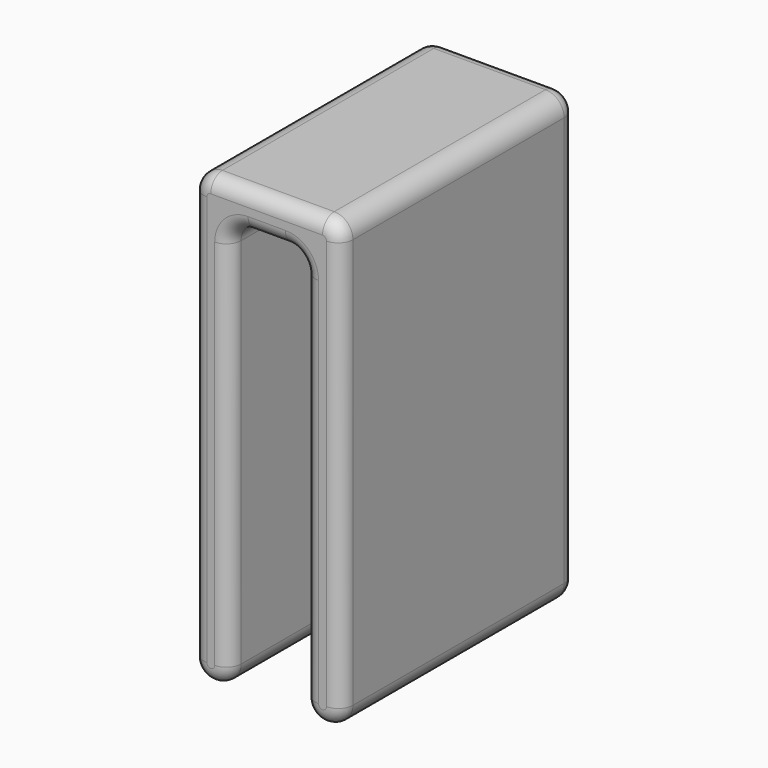
from build123d import *

# Parameters (mm, degrees)
F1_DEPTH = 50
F2_R     = 5


with BuildPart() as f1:
    # F0 (on Front) → F1 (new body, symmetric)
    with BuildSketch(Plane.XZ):
        with BuildLine():
            Line((19.05, 76.2), (-19.05, 76.2))
            ThreePointArc((-19.05, 76.2), (-23.5401280605, 74.3401280605), (-25.4, 69.85))
            Line((-25.4, 69.85), (-25.4, -69.85))
            ThreePointArc((-25.4, -69.85), (-23.5401280605, -74.3401280605), (-19.05, -76.2))
            ThreePointArc((-19.05, -76.2), (-14.5598719395, -74.3401280605), (-12.7, -69.85))
            Line((-12.7, -69.85), (-12.7, -63.5))
            Line((-12.7, -63.5), (-12.7, 57.15))
            ThreePointArc((-12.7, 57.15), (-10.8401280605, 61.6401280605), (-6.35, 63.5))
            Line((-6.35, 63.5), (6.35, 63.5))
            ThreePointArc((6.35, 63.5), (10.8401280605, 61.6401280605), (12.7, 57.15))
            Line((12.7, 57.15), (12.7, -63.5))
            Line((12.7, -63.5), (12.7, -69.85))
            ThreePointArc((12.7, -69.85), (14.5598719395, -74.3401280605), (19.05, -76.2))
            ThreePointArc((19.05, -76.2), (23.5401280605, -74.3401280605), (25.4, -69.85))
            Line((25.4, -69.85), (25.4, 69.85))
            ThreePointArc((25.4, 69.85), (23.5401280605, 74.3401280605), (19.05, 76.2))
        make_face()
    extrude(amount=F1_DEPTH, both=True)

    # F2
    f2_edges = [f1.edges().sort_by_distance(p)[0] for p in [
        (19.05, 50, -76.2),
        (25.4, 50, 0),
        (23.540128, 50, 74.340128),
        (0, 50, 76.2),
        (-23.540128, 50, 74.340128),
        (-25.4, 50, 0),
        (-19.05, 50, -76.2),
        (-12.7, 50, -6.35),
        (-10.840128, 50, 61.640128),
        (0, 50, 63.5),
        (10.840128, 50, 61.640128),
        (12.7, 50, -6.35),
        (19.05, -50, -76.2),
    ]]
    fillet(f2_edges, radius=F2_R)


solid = f1.part
